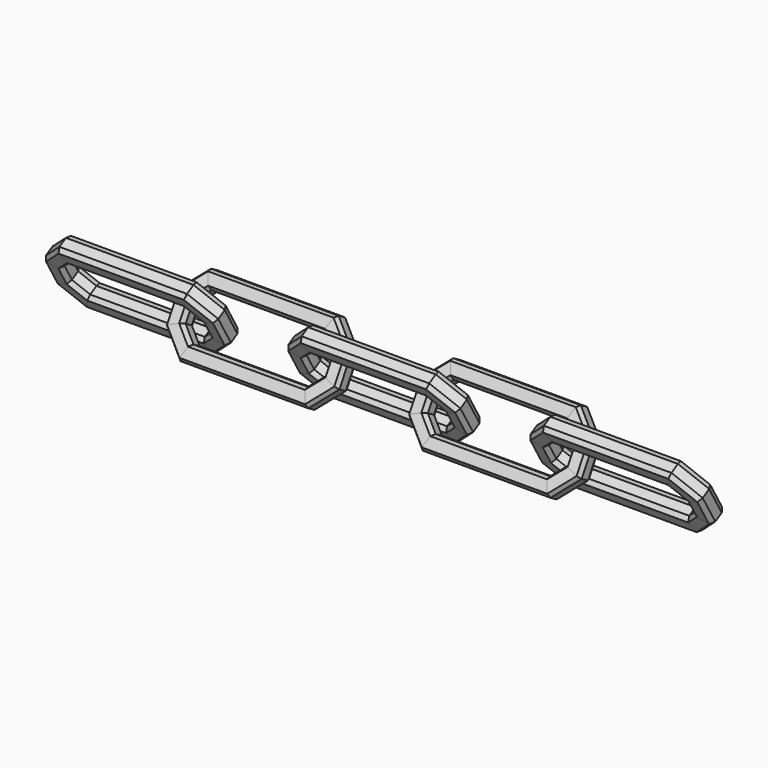
from build123d import *

# Parameters (mm, degrees)
F3_ANGLE = 60


with BuildPart() as f2:
    # F2: sweep along a path in F1
    with BuildLine(Plane.XY) as f2_path:
        Line((-29.0076239572, -5), (-9.0076239572, -5))
        Line((-9.0076239572, -5), (-6.078691769, -2.0710678119))
        Line((-6.078691769, -2.0710678119), (-6.078691769, 2.0710678119))
        Line((-6.078691769, 2.0710678119), (-9.0076239572, 5))
        Line((-9.0076239572, 5), (-29.0076239572, 5))
        Line((-29.0076239572, 5), (-31.9365561453, 2.0710678119))
        Line((-31.9365561453, 2.0710678119), (-31.9365561453, -2.0710678119))
        Line((-31.9365561453, -2.0710678119), (-29.0076239572, -5))
    # F0 (on Front) → F2 (sweep)
    with BuildSketch(Plane.XZ):
        Polygon((-6.9623874364, -1.4896583392), (-5.230457638, -1.5101320667), (-4.7886098043, -0.7653028972), (-4.7886098043, 0.7653028972), (-5.1949961017, 1.4896583392), (-6.9269259, 1.5101320667), (-7.3865045019, 0.7345923058), (-7.3865045019, -0.7345923058), align=None)
    sweep(path=f2_path.line, transition=Transition.RIGHT)


with BuildPart() as f2_1:
    # F3: moved
    add(f2.part.rotate(Axis((-19.0076239572, 0, 0), (1, 0, 0)), F3_ANGLE))


with BuildPart() as f4_1:
    # F4: instance of F2
    add(f2_1.part.mirror(Plane.XZ))


with BuildPart() as f2_2:
    # F5: moved
    add(f2_1.part.moved(Location((20, 0, 0))))


with BuildPart() as f6_1:
    # F6: copy of F4_1
    add(f4_1.part.moved(Location((40, 0, 0))))


with BuildPart() as f6_2:
    # F6: copy of F2
    add(f2_2.part.moved(Location((40, 0, 0))))


with BuildPart() as f7_1:
    # F7: copy of F4_1
    add(f4_1.part.moved(Location((80, 0, 0))))


solid = Compound([f4_1.part, f2_2.part, f6_1.part, f6_2.part, f7_1.part])
